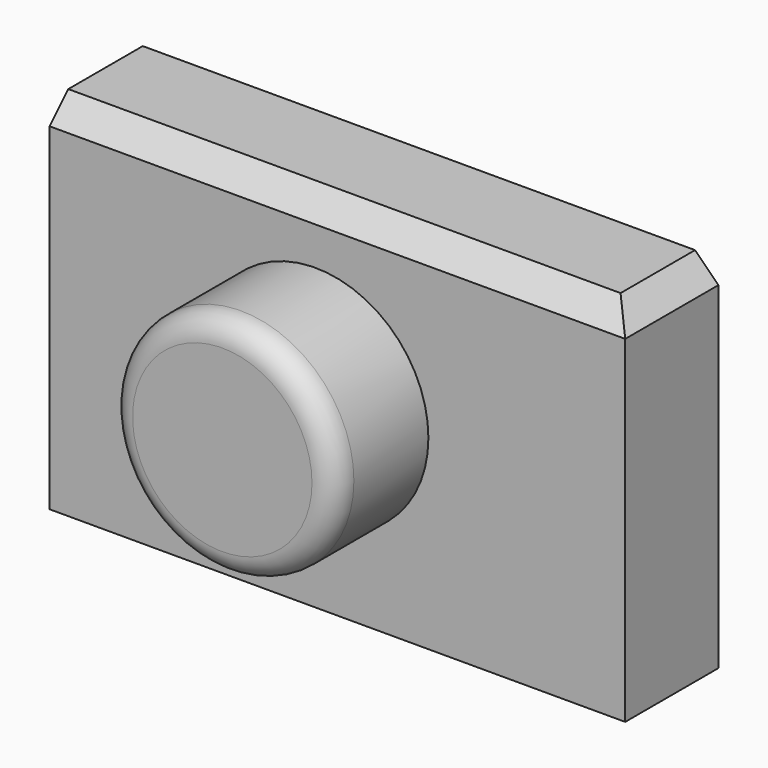
from build123d import *

# Parameters (mm, degrees)
F0_W     = 125.596717
F0_H     = 78.660075
F1_DEPTH = 25.4
F2_SIZE  = 5.08
F3_R     = 24.65401
F4_DEPTH = 25.4
F5_R     = 5.08


with BuildPart() as f1:
    # F0 (on Front) → F1 (new body)
    with BuildSketch(Plane.XZ):
        with Locations((4.805998, -1.282626)):
            Rectangle(F0_W, F0_H)
    extrude(amount=F1_DEPTH)

    # F2
    f2_edges = [f1.edges().sort_by_distance(p)[0] for p in [
        (67.604356, -12.7, 38.047411),
        (4.805997, -25.4, 38.047411),
    ]]
    chamfer(f2_edges, length=F2_SIZE)

    # F3 (on face) → F4 (join)
    with BuildSketch(Plane.XZ.offset(25.4)):
        Circle(F3_R)
    extrude(amount=F4_DEPTH)

    # F5
    f5_edges = [f1.edges().sort_by_distance(p)[0] for p in [
        (-24.65401, -50.8, 0),
    ]]
    fillet(f5_edges, radius=F5_R)


solid = f1.part
